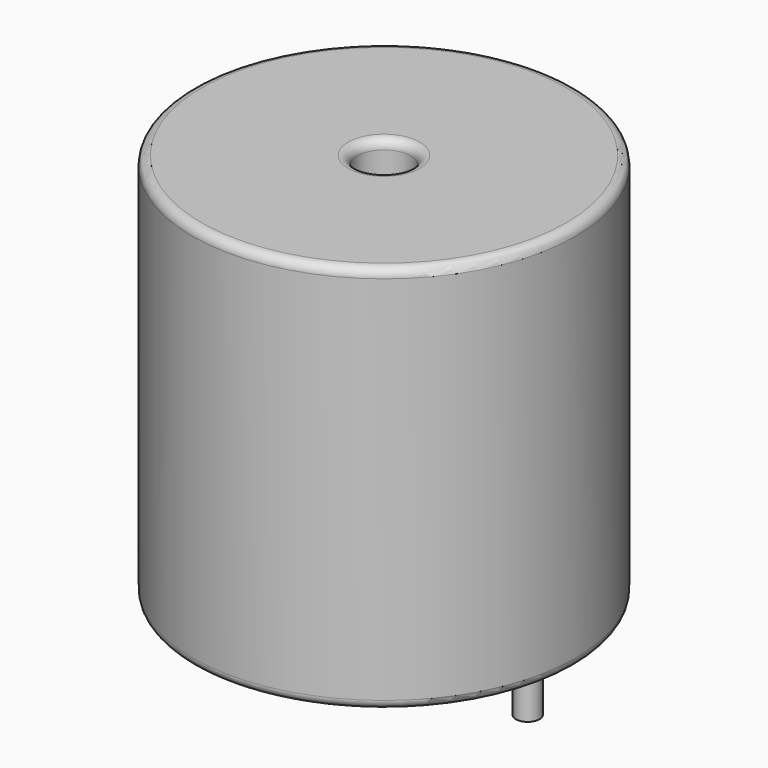
from build123d import *

# Parameters (mm, degrees)
SKETCH001_R       = 0.65
PAD001_DEPTH      = 10.67
PAD001_DEPTH_BACK = 3.5
SKETCH_R          = 10.5
SKETCH_R_2        = 1.46
PAD_DEPTH         = 21.34
FILLET_R          = 0.5


with BuildPart() as pad001:
    # Sketch001 → Pad001 (new body, two sides)
    with BuildSketch(Plane.XY.offset(0.5)) as pad001_sk:
        Circle(SKETCH001_R)
        with Locations((15.75, 0)):
            Circle(SKETCH001_R)
    extrude(amount=PAD001_DEPTH)
    extrude(pad001_sk.sketch, amount=-PAD001_DEPTH_BACK)


with BuildPart() as fillet_body:
    # Sketch → Pad (new body)
    with BuildSketch(Plane.XY.offset(0.1)):
        with Locations((7.875, 0)):
            Circle(SKETCH_R)
        with Locations((7.875, 0)):
            Circle(SKETCH_R_2, mode=Mode.SUBTRACT)
    extrude(amount=PAD_DEPTH)

    # Fillet
    fillet_edges = [fillet_body.edges().sort_by_distance(p)[0] for p in [
        (6.415, 0, 21.44),
        (-2.625, 0, 21.44),
        (-2.625, 0, 0.1),
    ]]
    fillet(fillet_edges, radius=FILLET_R)


solid = Compound([pad001.part, fillet_body.part])
